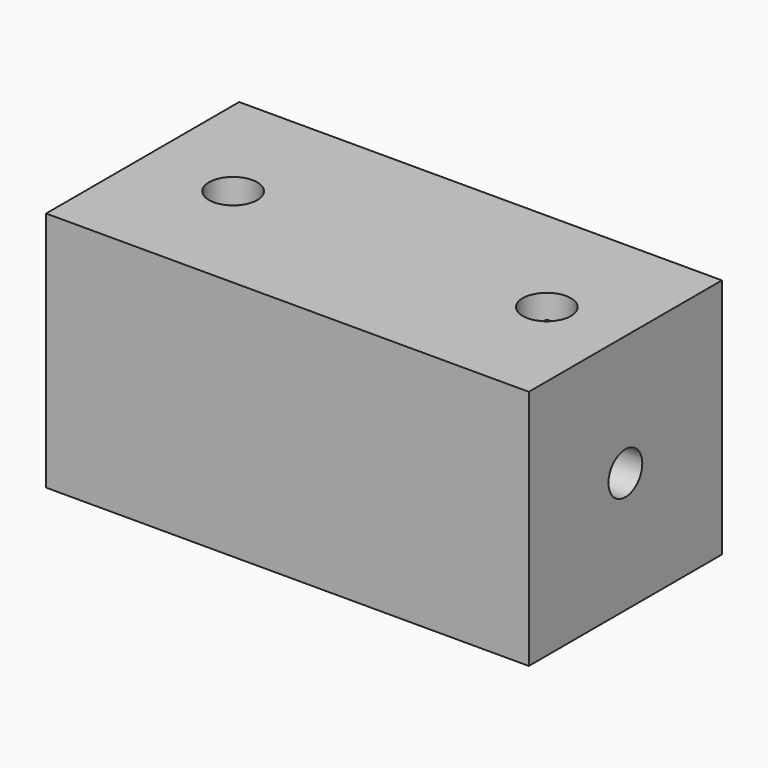
from build123d import *

# Parameters (mm, degrees)
F0_W      = 40
F0_H      = 20
F1_DEPTH  = 20
F2_R      = 1.75
F3_DEPTH  = 15
F4_R      = 1.75
F5_DEPTH  = 15
F6_R      = 0.5
F7_DEPTH  = 20.001
F8_R      = 2
F9_DEPTH  = 2
F12_R     = 2
F13_DEPTH = 2


with BuildPart() as f1:
    # F0 (on Top) → F1 (new body)
    with BuildSketch(Plane.XY):
        with Locations((-0.4968201369, 6.2780210599)):
            Rectangle(F0_W, F0_H)
    extrude(amount=F1_DEPTH)

    # F2 (on face) → F3 (cut)
    with BuildSketch(Plane(origin=(-20.4968201369, 0, 0), x_dir=(0, -1, 0), z_dir=(-1, 0, 0))):
        with Locations((-6.2780210599, 10)):
            Circle(F2_R)
    extrude(amount=-F3_DEPTH, mode=Mode.SUBTRACT)

    # F4 (on face) → F5 (cut)
    with BuildSketch(Plane.YZ.offset(19.5031798631)):
        with Locations((6.2780210599, 10)):
            Circle(F4_R)
    extrude(amount=-F5_DEPTH, mode=Mode.SUBTRACT)

    # F6 (on face) → F7 (cut, through all)
    with BuildSketch(Plane.XY.offset(20)):
        with Locations((-12.9968201369, 6.2780210599)):
            Circle(F6_R)
        with Locations((12.9968201369, 6.2780210599)):
            Circle(F6_R)
    extrude(amount=-F7_DEPTH, mode=Mode.SUBTRACT)

    # F8 (on face) → F9 (cut)
    with BuildSketch(Plane.XY.offset(20)):
        with Locations((-12.9968201369, 6.2780210599)):
            Circle(F8_R)
    extrude(amount=-F9_DEPTH, mode=Mode.SUBTRACT)

    # F10 (on face) → F11 (revolve, cut)
    with BuildSketch(Plane.XY.offset(18)):
        with BuildLine():
            Line((-12.9968201369, 4.2780210599), (-12.9968201369, 8.2780210599))
            ThreePointArc((-12.9968201369, 8.2780210599), (-14.9968201369, 6.2780210599), (-12.9968201369, 4.2780210599))
        make_face()
    revolve(axis=Axis((-12.9968201369, 6.2780210599, 18), (0, -1, 0)), mode=Mode.SUBTRACT)

    # F12 (on face) → F13 (cut)
    with BuildSketch(Plane.XY.offset(20)):
        with Locations((12.9968201369, 6.2780210599)):
            Circle(F12_R)
    extrude(amount=-F13_DEPTH, mode=Mode.SUBTRACT)

    # F14 (on face) → F15 (revolve, cut)
    with BuildSketch(Plane.XY.offset(18)):
        with BuildLine():
            Line((13.0087840564, 4.278056844), (13.0087840564, 8.2779852757))
            ThreePointArc((13.0087840564, 8.2779852757), (11.0088198406, 6.2780210599), (13.0087840564, 4.278056844))
        make_face()
    revolve(axis=Axis((13.0087840564, 6.2780210599, 18), (0, -1, 0)), mode=Mode.SUBTRACT)


solid = f1.part
